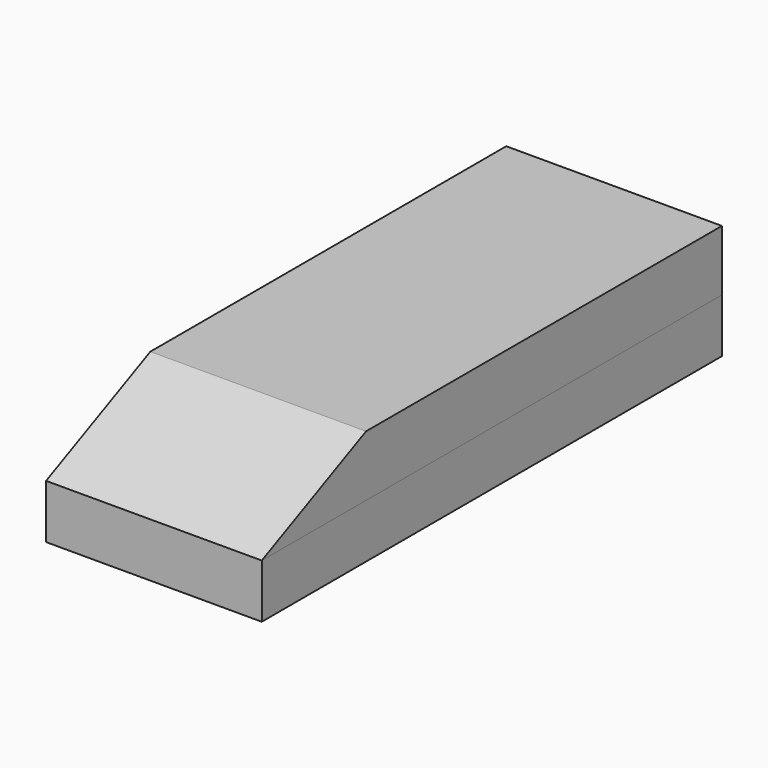
from build123d import *

# Parameters (mm, degrees)
F1_DEPTH = 38.1
F2_W     = 203.2
F2_H     = 19.05
F3_DEPTH = 38.1


with BuildPart() as f1:
    # F0 (on Right) → F1 (new body, symmetric)
    with BuildSketch(Plane.YZ):
        Polygon((46.040436, 21.469008), (0, 0), (203.2, 0), (203.2, 21.469008), align=None)
    extrude(amount=F1_DEPTH, both=True)


with BuildPart() as f3:
    # F2 (on Right) → F3 (new body, symmetric)
    with BuildSketch(Plane.YZ):
        with Locations((101.6, -9.525)):
            Rectangle(F2_W, F2_H)
    extrude(amount=F3_DEPTH, both=True)


solid = Compound([f1.part, f3.part])
